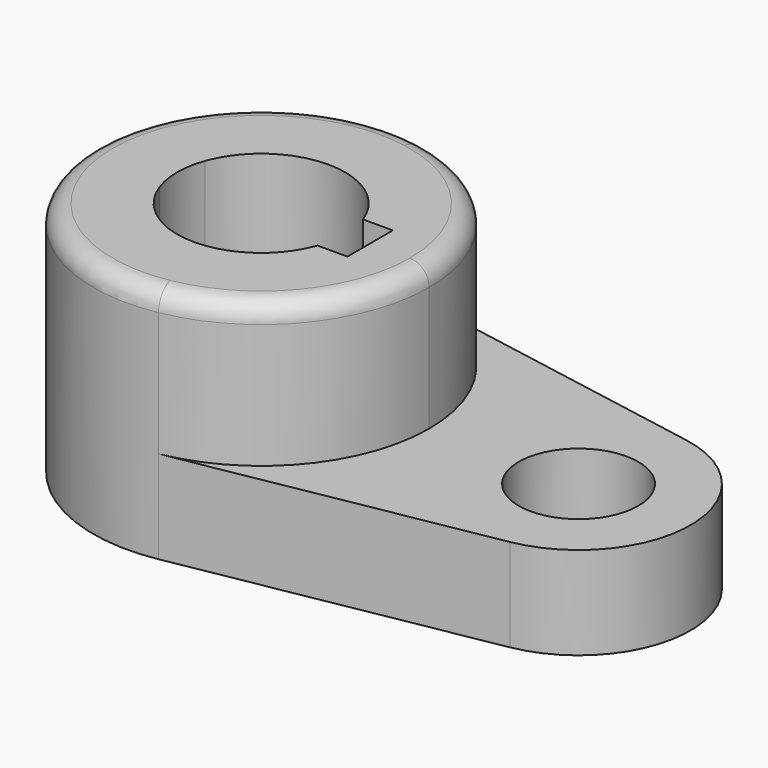
from build123d import *

# Parameters (mm, degrees)
F1_DEPTH = 40.2336
F0_R     = 10.16
F2_DEPTH = 15.7734
F3_R     = 3.302


with BuildPart() as f1:
    # F0 (on Top) → F1 (new body)
    with BuildSketch(Plane.XY):
        with BuildLine():
            ThreePointArc((-30.901911, -28.126541), (-14.028534, -18.336262), (-7.369558, 0))
            ThreePointArc((-7.369558, 0), (-14.028534, 18.336262), (-30.901911, 28.126541))
            ThreePointArc((-30.901911, 28.126541), (-64.519558, 0), (-30.901911, -28.126541))
        make_face()
        with BuildLine():
            ThreePointArc((-49.392323, -4.826), (-50.232058, 0), (-49.392323, 4.826))
            ThreePointArc((-49.392323, 4.826), (-35.944558, 14.2875), (-22.496793, 4.826))
            Line((-22.496793, 4.826), (-17.415258, 4.826))
            Line((-17.415258, 4.826), (-17.415258, -4.826))
            Line((-17.415258, -4.826), (-22.496793, -4.826))
            ThreePointArc((-22.496793, -4.826), (-35.944558, -14.2875), (-49.392323, -4.826))
        make_face(mode=Mode.SUBTRACT)
    extrude(amount=F1_DEPTH)

    # F0 (on Top) → F2 (join)
    with BuildSketch(Plane.XY):
        with BuildLine():
            ThreePointArc((-30.901911, 28.126541), (-14.028534, 18.336262), (-7.369558, 0))
            ThreePointArc((-7.369558, 0), (-14.028534, -18.336262), (-30.901911, -28.126541))
            Line((-30.901911, -28.126541), (21.392206, -18.751028))
            ThreePointArc((21.392206, -18.751028), (37.080442, 0), (21.392206, 18.751028))
            Line((21.392206, 18.751028), (-30.901911, 28.126541))
        make_face()
        with Locations((18.030442, 0)):
            Circle(F0_R, mode=Mode.SUBTRACT)
    extrude(amount=F2_DEPTH)

    # F3
    f3_edges = [f1.edges().sort_by_distance(p)[0] for p in [
        (-40.987205, 28.126541, 40.2336),
    ]]
    fillet(f3_edges, radius=F3_R)


solid = f1.part
